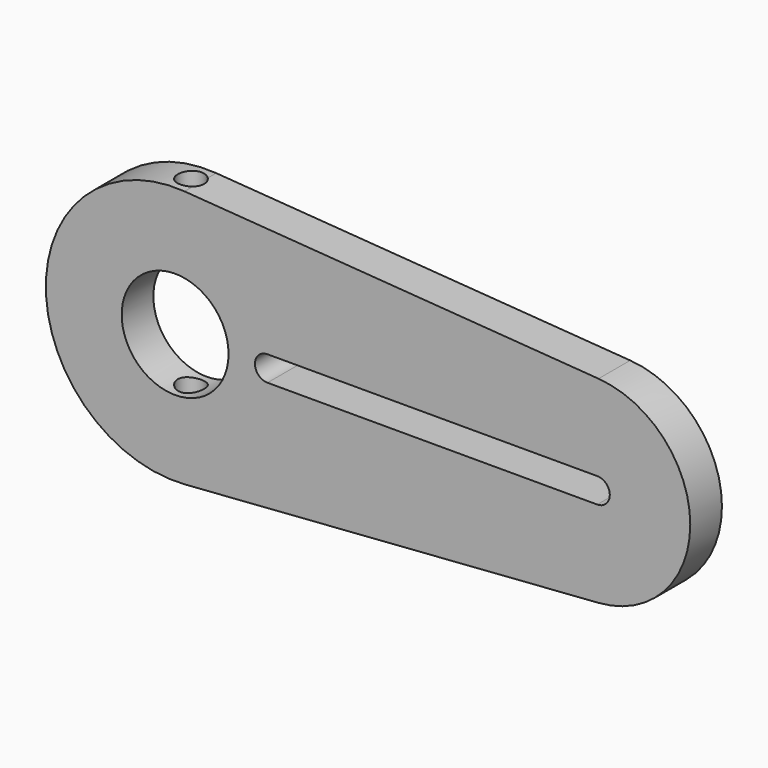
from build123d import *

# Parameters (mm, degrees)
F0_R     = 4.05
F1_DEPTH = 1.5
F2_R     = 1
F3_DEPTH = 12.5


with BuildPart() as f1:
    # F0 (on Front) → F1 (new body, symmetric)
    with BuildSketch(Plane.XZ):
        with BuildLine():
            Line((0.714422, -9.773925), (32.096751, -7.480044))
            ThreePointArc((32.096751, -7.480044), (39.05, 0), (32.096751, 7.480044))
            Line((32.096751, 7.480044), (0.714422, 9.773925))
            ThreePointArc((0.714422, 9.773925), (-9.8, 0), (0.714422, -9.773925))
        make_face()
        Circle(F0_R, mode=Mode.SUBTRACT)
        with BuildLine():
            ThreePointArc((32, 0.95), (32.95, 0), (32, -0.95))
            Line((32, -0.95), (7, -0.95))
            ThreePointArc((7, -0.95), (6.05, 0), (7, 0.95))
            Line((7, 0.95), (32, 0.95))
        make_face(mode=Mode.SUBTRACT)
    extrude(amount=F1_DEPTH, both=True)

    # F2 (on Top) → F3 (cut, symmetric)
    with BuildSketch(Plane.XY):
        Circle(F2_R)
    extrude(amount=F3_DEPTH, both=True, mode=Mode.SUBTRACT)


solid = f1.part
